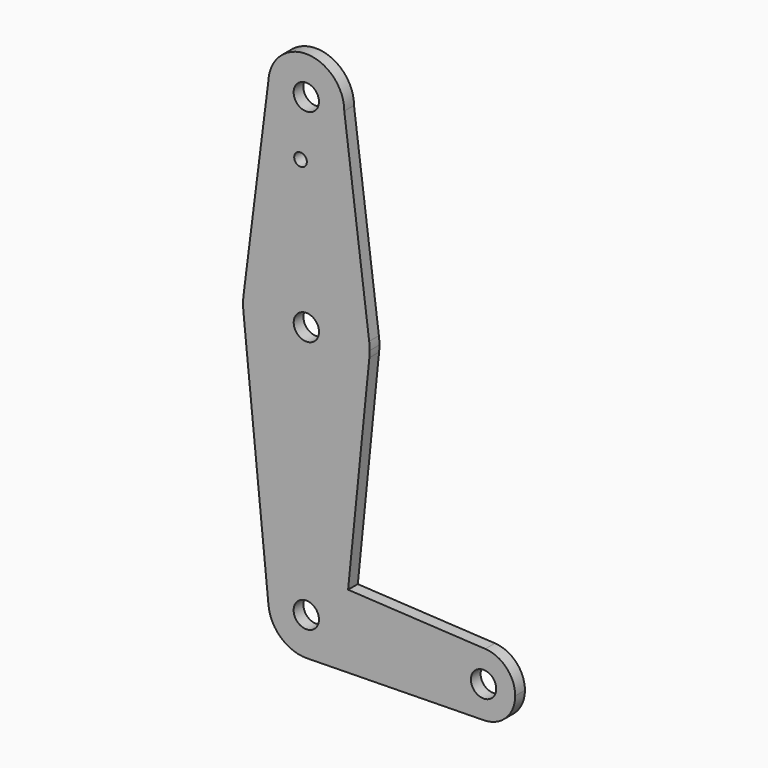
from build123d import *

# Parameters (mm, degrees)
F0_R     = 3.175
F0_R_2   = 1.5875
F1_DEPTH = 3.048


with BuildPart() as f1:
    # F0 (on Front) → F1 (new body)
    with BuildSketch(Plane.XZ):
        with BuildLine():
            ThreePointArc((-9.5170089062, 76.7170538197), (-0.1950835318, 66.8039665814), (9.525, 76.3269685984))
            ThreePointArc((9.525, 76.3269685984), (0.1950835318, 85.8499706154), (-9.5170089062, 76.7170538197))
        make_face()
        with Locations((0, 76.3269685984)):
            Circle(F0_R, mode=Mode.SUBTRACT)
        with BuildLine():
            Line((15.7633476625, 27.5405178354), (9.525, 76.3269685984))
            ThreePointArc((9.525, 76.3269685984), (-0.1950835318, 66.8039665814), (-9.5170089062, 76.7170538197))
            Line((-9.5170089062, 76.7170538197), (-15.7332269428, 27.5168829244))
            ThreePointArc((-15.7332269428, 27.5168829244), (0.004649915, 41.4019641288), (15.7633476625, 27.5405178354))
        make_face()
        with Locations((-1.4447036797, 62.0521685984)):
            Circle(F0_R_2, mode=Mode.SUBTRACT)
        with BuildLine():
            ThreePointArc((15.8915624518, 25.5269685984), (15.8594763287, 26.5357822038), (15.7633476625, 27.5405178354))
            ThreePointArc((15.7633476625, 27.5405178354), (0.004649915, 41.4019641288), (-15.7332269428, 27.5168829244))
            ThreePointArc((-15.7332269428, 27.5168829244), (-15.8571194564, 25.7315356443), (-15.7792766416, 23.9435885641))
            ThreePointArc((-15.7792766416, 23.9435885641), (0.012421839, 9.6519691384), (15.8115734228, 23.9353488486))
            ThreePointArc((15.8115734228, 23.9353488486), (15.8715525837, 24.7301543677), (15.8915624518, 25.5269685984))
        make_face()
        with Locations((0.0165624518, 25.5269685984)):
            Circle(F0_R, mode=Mode.SUBTRACT)
        with BuildLine():
            ThreePointArc((15.8115734228, 23.9353488486), (0.012421839, 9.6519691384), (-15.7792766416, 23.9435885641))
            Line((-15.7792766416, 23.9435885641), (-9.4775034561, -38.9230594222))
            ThreePointArc((-9.4775034561, -38.9230594222), (-6.8860322658, -31.3921359737), (0.5197863873, -28.4622245425))
            Line((0.5197863873, -28.4622245425), (10.4767796182, -29.0063959905))
            Line((10.4767796182, -29.0063959905), (15.8115734228, 23.9353488486))
        make_face()
        with BuildLine():
            ThreePointArc((0.5197863873, -28.4622245425), (-6.8860322658, -31.3921359737), (-9.4775034561, -38.9230594222))
            ThreePointArc((-9.4775034561, -38.9230594222), (-6.3307673654, -45.0897026435), (0.1604495525, -47.4966799116))
            ThreePointArc((0.1604495525, -47.4966799116), (6.4479217671, -44.9837324996), (9.4770065826, -38.9280032515))
            ThreePointArc((9.4770065826, -38.9280032515), (9.5129940791, -38.45111994), (9.525, -37.9730314016))
            ThreePointArc((9.525, -37.9730314016), (6.9165233441, -31.4241895322), (0.5197863873, -28.4622245425))
        make_face()
        with Locations((0, -37.9730314016)):
            Circle(F0_R, mode=Mode.SUBTRACT)
        with BuildLine():
            Line((9.4770065826, -38.9280032515), (10.4767796182, -29.0063959905))
            Line((10.4767796182, -29.0063959905), (0.5197863873, -28.4622245425))
            ThreePointArc((0.5197863873, -28.4622245425), (6.9165233441, -31.4241895322), (9.525, -37.9730314016))
            ThreePointArc((9.525, -37.9730314016), (9.5129940791, -38.45111994), (9.4770065826, -38.9280032515))
        make_face()
        with BuildLine():
            Line((44.8752367252, -30.8863468731), (10.4767796182, -29.0063959905))
            Line((10.4767796182, -29.0063959905), (9.4770065826, -38.9280032515))
            ThreePointArc((9.4770065826, -38.9280032515), (6.4479217671, -44.9837324996), (0.1604495525, -47.4966799116))
            Line((0.1604495525, -47.4966799116), (44.5757893629, -46.748393014))
            ThreePointArc((44.5757893629, -46.748393014), (36.5059954377, -38.662199996), (44.8752367252, -30.8863468731))
        make_face()
        with BuildLine():
            ThreePointArc((52.3795814024, -38.8120192557), (50.2058508559, -33.3546510312), (44.8752367252, -30.8863468731))
            ThreePointArc((44.8752367252, -30.8863468731), (36.5059954377, -38.662199996), (44.5757893629, -46.748393014))
            ThreePointArc((44.5757893629, -46.748393014), (50.101816961, -44.3772056548), (52.3795814024, -38.8120192557))
        make_face()
        with Locations((44.4420814024, -38.8120192557)):
            Circle(F0_R, mode=Mode.SUBTRACT)
    extrude(amount=F1_DEPTH)


solid = f1.part
